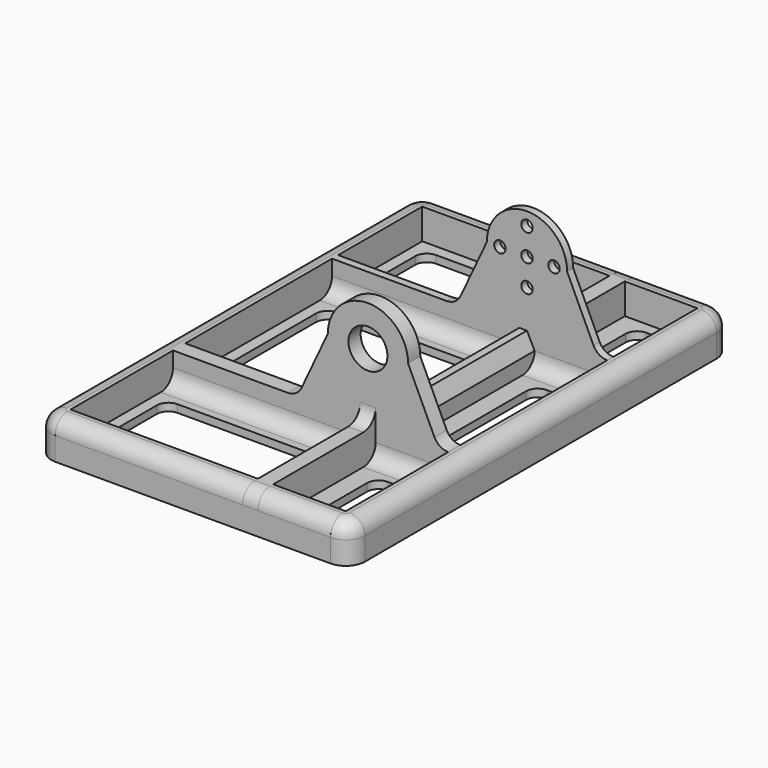
from build123d import *

# Parameters (mm, degrees)
PAD_DEPTH     = 2
SKETCH001_R   = 5.1
PAD001_DEPTH  = 4
SKETCH002_R   = 1.5
PAD002_DEPTH  = 2
SKETCH003_W   = 8
SKETCH003_H   = 48
PAD003_DEPTH  = 2
PAD004_DEPTH  = 8
FILLET_R      = 4
SKETCH005_W   = 19
SKETCH005_H   = 5
SKETCH005_W_2 = 49
PAD005_DEPTH  = 8
FILLET001_R   = 3.99
CHAMFER_SIZE2 = 2
CHAMFER_SIZE  = 4
FILLET002_R   = 4


with BuildPart() as part:
    # Sketch → Pad (new body)
    with BuildSketch(Plane.XY):
        with BuildLine():
            ThreePointArc((-36, 62.5), (-39.535534, 61.035534), (-41, 57.5))
            Line((-41, -57.5), (-41, 57.5))
            ThreePointArc((-41, -57.5), (-39.535534, -61.035534), (-36, -62.5))
            Line((36, -62.5), (-36, -62.5))
            ThreePointArc((36, -62.5), (39.535534, -61.035534), (41, -57.5))
            Line((41, 57.5), (41, -57.5))
            ThreePointArc((41, 57.5), (39.535534, 61.035534), (36, 62.5))
            Line((-36, 62.5), (36, 62.5))
        make_face()
        with BuildLine():
            ThreePointArc((-30, 54.5), (-32.12132, 53.62132), (-33, 51.5))
            Line((-33, 39), (-33, 51.5))
            ThreePointArc((-33, 39), (-32.12132, 36.87868), (-30, 36))
            Line((5, 36), (-30, 36))
            ThreePointArc((5, 36), (7.12132, 36.87868), (8, 39))
            Line((8, 51.5), (8, 39))
            ThreePointArc((8, 51.5), (7.12132, 53.62132), (5, 54.5))
            Line((-30, 54.5), (5, 54.5))
        make_face(mode=Mode.SUBTRACT)
        with BuildLine():
            ThreePointArc((25, 54.5), (22.87868, 53.62132), (22, 51.5))
            Line((22, 39), (22, 51.5))
            ThreePointArc((22, 39), (22.87868, 36.87868), (25, 36))
            Line((30, 36), (25, 36))
            ThreePointArc((30, 36), (32.12132, 36.87868), (33, 39))
            Line((33, 51.5), (33, 39))
            ThreePointArc((33, 51.5), (32.12132, 53.62132), (30, 54.5))
            Line((25, 54.5), (30, 54.5))
        make_face(mode=Mode.SUBTRACT)
        with BuildLine():
            ThreePointArc((-30, 22), (-32.12132, 21.12132), (-33, 19))
            Line((-33, -11), (-33, 19))
            ThreePointArc((-33, -11), (-32.12132, -13.12132), (-30, -14))
            Line((5, -14), (-30, -14))
            ThreePointArc((5, -14), (7.12132, -13.12132), (8, -11))
            Line((8, 19), (8, -11))
            ThreePointArc((8, 19), (7.12132, 21.12132), (5, 22))
            Line((-30, 22), (5, 22))
        make_face(mode=Mode.SUBTRACT)
        with BuildLine():
            ThreePointArc((25, 22), (22.87868, 21.12132), (22, 19))
            Line((22, -11), (22, 19))
            ThreePointArc((22, -11), (22.87868, -13.12132), (25, -14))
            Line((30, -14), (25, -14))
            ThreePointArc((30, -14), (32.12132, -13.12132), (33, -11))
            Line((33, 19), (33, -11))
            ThreePointArc((33, 19), (32.12132, 21.12132), (30, 22))
            Line((25, 22), (30, 22))
        make_face(mode=Mode.SUBTRACT)
        with BuildLine():
            ThreePointArc((-30, -30), (-32.12132, -30.87868), (-33, -33))
            Line((-33, -51.5), (-33, -33))
            ThreePointArc((-33, -51.5), (-32.12132, -53.62132), (-30, -54.5))
            Line((5, -54.5), (-30, -54.5))
            ThreePointArc((5, -54.5), (7.12132, -53.62132), (8, -51.5))
            Line((8, -33), (8, -51.5))
            ThreePointArc((8, -33), (7.12132, -30.87868), (5, -30))
            Line((-30, -30), (5, -30))
        make_face(mode=Mode.SUBTRACT)
        with BuildLine():
            ThreePointArc((25, -30), (22.87868, -30.87868), (22, -33))
            Line((22, -51.5), (22, -33))
            ThreePointArc((22, -51.5), (22.87868, -53.62132), (25, -54.5))
            Line((30, -54.5), (25, -54.5))
            ThreePointArc((30, -54.5), (32.12132, -53.62132), (33, -51.5))
            Line((33, -33), (33, -51.5))
            ThreePointArc((33, -33), (32.12132, -30.87868), (30, -30))
            Line((25, -30), (30, -30))
        make_face(mode=Mode.SUBTRACT)
    extrude(amount=PAD_DEPTH)

    # Sketch001 (on DatumPlane) → Pad001 (join)
    with BuildSketch(Plane.XZ.offset(24)):
        with BuildLine():
            Line((36, 2), (36, 10))
            ThreePointArc((32.377085, 12.304569), (33.85311, 10.624965), (36, 10))
            Line((32.377085, 12.304569), (25.5, 27))
            ThreePointArc((25.5, 27), (15, 37.5), (4.5, 27))
            Line((4.5, 27), (-2.377085, 12.304569))
            ThreePointArc((-6, 10), (-3.85311, 10.624965), (-2.377085, 12.304569))
            Line((-6, 10), (-36, 10))
            Line((-36, 10), (-36, 2))
            Line((-36, 2), (36, 2))
        make_face()
        with Locations((15, 27)):
            Circle(SKETCH001_R, mode=Mode.SUBTRACT)
    extrude(amount=-PAD001_DEPTH)

    # Sketch002 (on DatumPlane) → Pad002 (join)
    with BuildSketch(Plane.XZ.offset(-28)):
        with BuildLine():
            Line((-36, 10), (-6, 10))
            ThreePointArc((-6, 10), (-3.85311, 10.624965), (-2.377085, 12.304569))
            Line((4.5, 27), (-2.377085, 12.304569))
            ThreePointArc((25.5, 27), (15, 37.5), (4.5, 27))
            Line((25.5, 27), (32.377085, 12.304569))
            ThreePointArc((32.377085, 12.304569), (33.85311, 10.624965), (36, 10))
            Line((36, 10), (36, 2))
            Line((-36, 2), (36, 2))
            Line((-36, 10), (-36, 2))
        make_face()
        with Locations((7.928932, 27)):
            Circle(SKETCH002_R, mode=Mode.SUBTRACT)
        with Locations((15, 34.071068)):
            Circle(SKETCH002_R, mode=Mode.SUBTRACT)
        with Locations((15, 27)):
            Circle(SKETCH002_R, mode=Mode.SUBTRACT)
        with Locations((22.071068, 27)):
            Circle(SKETCH002_R, mode=Mode.SUBTRACT)
        with Locations((15, 19.928932)):
            Circle(SKETCH002_R, mode=Mode.SUBTRACT)
    extrude(amount=-PAD002_DEPTH)

    # Sketch003 (on DatumPlane) → Pad003 (join, symmetric)
    with BuildSketch(Plane(origin=(15, -24, 26), x_dir=(0, 0, 1), z_dir=(1, 0, 0))):
        with BuildLine():
            Line((-24, -54), (-24, -86.5))
            Line((-24, -86.5), (-20, -86.5))
            ThreePointArc((-20, -86.5), (-17.171573, -85.328427), (-16, -82.5))
            Line((-16, -58), (-16, -82.5))
            ThreePointArc((-12, -54), (-14.828427, -55.171573), (-16, -58))
            Line((-24, -54), (-12, -54))
        make_face()
        with BuildLine():
            Line((-24, 38.5), (-24, 0))
            Line((-24, 0), (-12, 0))
            ThreePointArc((-16, 4), (-14.828427, 1.171573), (-12, 0))
            Line((-16, 34.5), (-16, 4))
            ThreePointArc((-16, 34.5), (-17.171573, 37.328427), (-20, 38.5))
            Line((-24, 38.5), (-20, 38.5))
        make_face()
        with Locations((-20, -28)):
            Rectangle(SKETCH003_W, SKETCH003_H)
    extrude(amount=PAD003_DEPTH, both=True)

    # Sketch004 (on Face8 of Pad003) → Pad004 (join)
    with BuildSketch(Plane.XY.offset(2)):
        with BuildLine():
            Line((-41, -57.5), (-41, 57.5))
            ThreePointArc((-36, 62.5), (-39.535534, 61.035534), (-41, 57.5))
            Line((-36, 62.5), (-36, -62.5))
            ThreePointArc((-41, -57.5), (-39.535534, -61.035534), (-36, -62.5))
        make_face()
        with BuildLine():
            Line((41, -57.5), (41, 57.5))
            ThreePointArc((41, 57.5), (39.535534, 61.035534), (36, 62.5))
            Line((36, -62.5), (36, 62.5))
            ThreePointArc((36, -62.5), (39.535534, -61.035534), (41, -57.5))
        make_face()
    extrude(amount=PAD004_DEPTH)

    # Fillet
    fillet_edges = [part.edges().sort_by_distance(p)[0] for p in [
        (41, 0, 10),
        (-41, 0, 10),
    ]]
    fillet(fillet_edges, radius=FILLET_R)

    # Sketch005 (on Face99 of Fillet) → Pad005 (join)
    with BuildSketch(Plane.XY.offset(2)):
        with Locations((26.5, -60)):
            Rectangle(SKETCH005_W, SKETCH005_H)
        with Locations((-11.5, -60)):
            Rectangle(SKETCH005_W_2, SKETCH005_H)
        with Locations((26.5, 60)):
            Rectangle(SKETCH005_W, SKETCH005_H)
        with Locations((-11.5, 60)):
            Rectangle(SKETCH005_W_2, SKETCH005_H)
    extrude(amount=PAD005_DEPTH)

    # Fillet001
    fillet001_edges = [part.edges().sort_by_distance(p)[0] for p in [
        (-11.5, 62.5, 10),
        (26.5, 62.5, 10),
        (-11.5, -62.5, 10),
        (26.5, -62.5, 10),
    ]]
    fillet(fillet001_edges, radius=FILLET001_R)

    # Chamfer
    chamfer_edges = [part.edges().sort_by_distance(p)[0] for p in [
        (17, 4, 10),
    ]]
    chamfer_side = part.faces().sort_by_distance((17, 4, 6))[0]
    chamfer(chamfer_edges, length=CHAMFER_SIZE, length2=CHAMFER_SIZE2, reference=chamfer_side)

    # Fillet002
    fillet002_edges = [part.edges().sort_by_distance(p)[0] for p in [
        (-11.5, -24, 2),
        (26.5, -24, 2),
        (26.5, 28, 2),
        (-11.5, 28, 2),
        (26.5, 30, 2),
        (-11.5, 30, 2),
        (-11.5, -20, 2),
        (26.5, -20, 2),
    ]]
    fillet(fillet002_edges, radius=FILLET002_R)


solid = part.part
